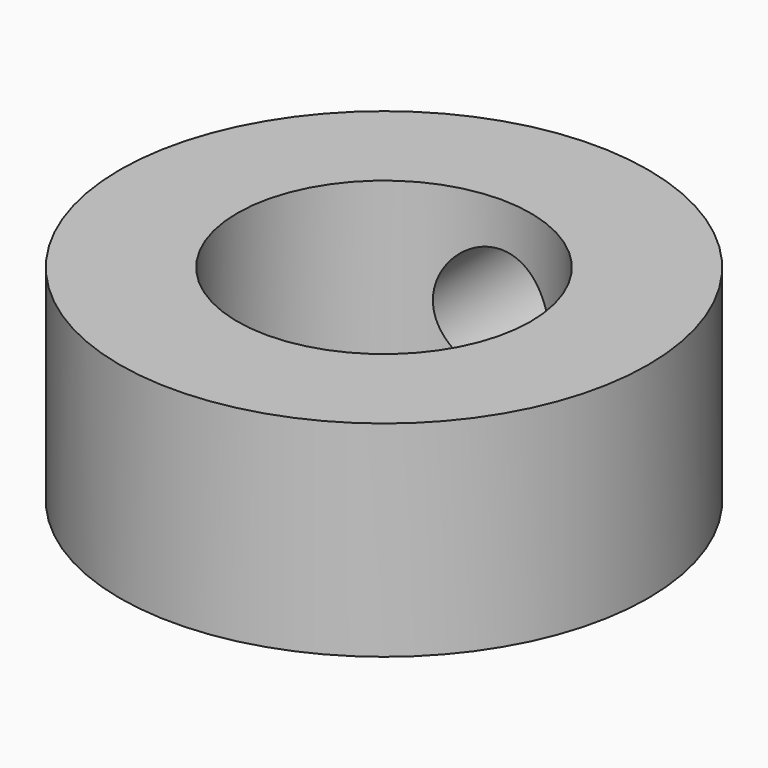
from build123d import *

# Parameters (mm, degrees)
F0_R     = 5.715
F0_R_2   = 3.175
F1_DEPTH = 4.445
F3_DEPTH = 25.4


with BuildPart() as f1:
    # F0 (on Top) → F1 (new body)
    with BuildSketch(Plane.XY):
        Circle(F0_R)
        Circle(F0_R_2, mode=Mode.SUBTRACT)
    extrude(amount=F1_DEPTH)

    # F2 (on Front) → F3 (cut)
    with BuildSketch(Plane.XZ):
        with BuildLine():
            ThreePointArc((1.27, 2.2225), (0.898026, 3.120526), (0, 3.4925))
            Line((0, 3.4925), (0, 0.9525))
            ThreePointArc((0, 0.9525), (0.898026, 1.324474), (1.27, 2.2225))
        make_face()
        with BuildLine():
            Line((0, 0.9525), (0, 3.4925))
            ThreePointArc((0, 3.4925), (-1.27, 2.2225), (0, 0.9525))
        make_face()
    extrude(amount=-F3_DEPTH, mode=Mode.SUBTRACT)


solid = f1.part
